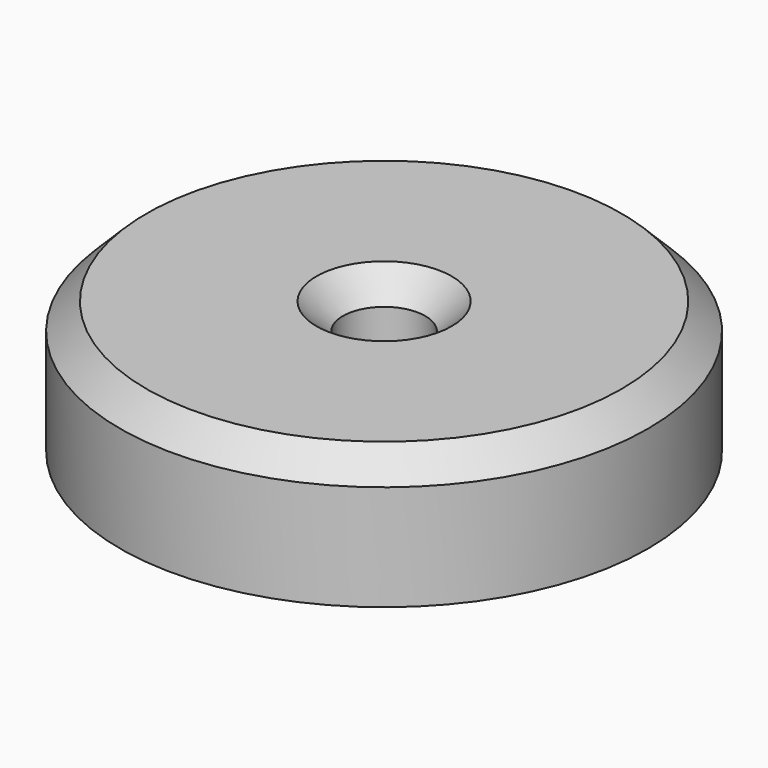
from build123d import *

# Parameters (mm, degrees)
F0_R     = 25.4
F1_DEPTH = 6.35
F2_R     = 3.96875
F3_DEPTH = 25.4
F2_R_2   = 25.4
F2_R_3   = 22.225
F4_DEPTH = 6.35
F5_SIZE  = 2.54


with BuildPart() as f1:
    # F0 (on Top) → F1 (new body)
    with BuildSketch(Plane.XY):
        Circle(F0_R)
    extrude(amount=F1_DEPTH)

    # F2 (on face) → F3 (cut)
    with BuildSketch(Plane(origin=(0, 0, 0), x_dir=(1, 0, 0), z_dir=(0, 0, -1))):
        Circle(F2_R)
    extrude(amount=-F3_DEPTH, mode=Mode.SUBTRACT)

    # F2 (on face) → F4 (join)
    with BuildSketch(Plane(origin=(0, 0, 0), x_dir=(1, 0, 0), z_dir=(0, 0, -1))):
        Circle(F2_R_2)
        Circle(F2_R_3, mode=Mode.SUBTRACT)
    extrude(amount=F4_DEPTH)

    # F5
    f5_edges = [f1.edges().sort_by_distance(p)[0] for p in [
        (-3.96875, 0, 6.35),
        (-25.4, 0, 6.35),
    ]]
    chamfer(f5_edges, length=F5_SIZE)


solid = f1.part
